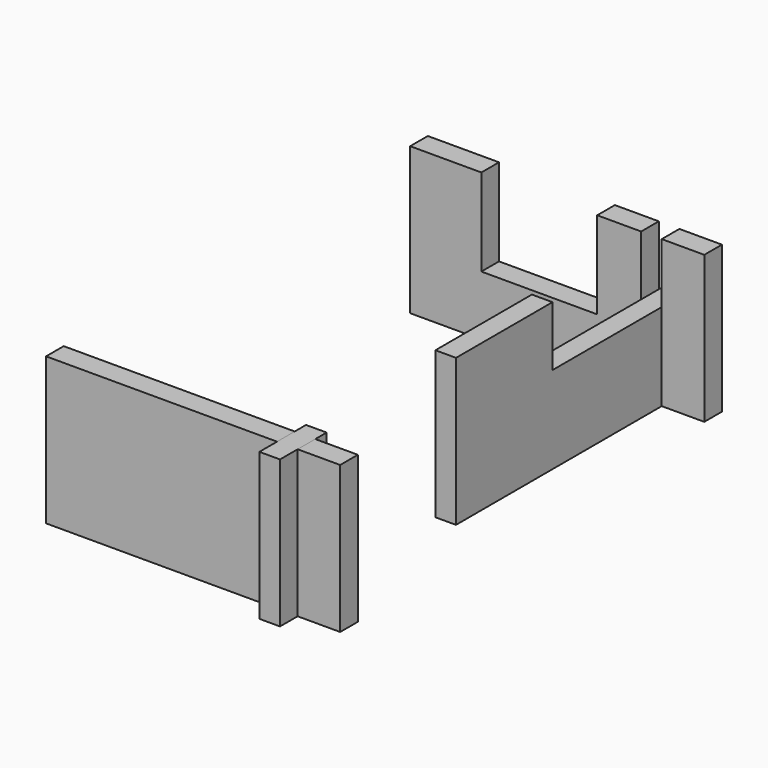
from build123d import *

# Parameters (mm, degrees)
F0_W      = 40
F0_H      = 20
F1_DEPTH  = 3
F2_W      = 2.8
F2_H      = 3
F3_DEPTH  = 10
F5_DEPTH  = 20
F6_W      = 2.9889008573
F6_H      = 10
F7_DEPTH  = 34.2135911891
F8_W      = 22
F8_H      = 20
F9_DEPTH  = 25
F10_W     = 24.6729651093
F10_H     = 8.1348870695
F11_DEPTH = 25
F13_W     = 15.75680729
F13_H     = 11.8645136058
F14_DEPTH = 25


with BuildPart() as f1:
    # F0 (on Front) → F1 (new body)
    with BuildSketch(Plane.XZ):
        with Locations((-20, 10)):
            Rectangle(F0_W, F0_H)
    extrude(amount=F1_DEPTH)

    # F2 (on face) → F3 (cut)
    with BuildSketch(Plane.XY.offset(20)):
        with Locations((-7.1874088109, -1.5)):
            Rectangle(F2_W, F2_H)
    extrude(amount=-F3_DEPTH, mode=Mode.SUBTRACT)


with BuildPart() as f5:
    # F4 (on face) → F5 (new body, through all)
    with BuildSketch(Plane.XY.offset(20)):
        Polygon((-5.7874088109, 65), (-8.5874088109, 65), (-8.5874088109, 0), (-8.5874088109, -3), (-8.5874088109, -6), (-5.7874088109, -6), align=None)
    extrude(amount=-F5_DEPTH)

    # F6 (on face) → F7 (cut, through all)
    with BuildSketch(Plane.YZ.offset(-5.7874088109)):
        with Locations((-1.5036289775, 5)):
            Rectangle(F6_W, F6_H)
        with Locations((60.5036289775, 5)):
            Rectangle(F6_W, F6_H)
    extrude(amount=-F7_DEPTH, mode=Mode.SUBTRACT)

    # F8 (on face) → F9 (cut)
    with BuildSketch(Plane.YZ.offset(-5.7874088109)):
        with Locations((12.9240668043, 10)):
            Rectangle(F8_W, F8_H)
    extrude(amount=-F9_DEPTH, mode=Mode.SUBTRACT)

    # F10 (on face) → F11 (cut)
    with BuildSketch(Plane.YZ.offset(-5.7874088109)):
        with Locations((52.6635174453, 15.9325564653)):
            Rectangle(F10_W, F10_H)
    extrude(amount=-F11_DEPTH, mode=Mode.SUBTRACT)


with BuildPart() as f12_1:
    # F12: copy of F1
    add(f1.part.moved(Location((0, 61.9, 0))))

    # F13 (on face) → F14 (cut)
    with BuildSketch(Plane(origin=(0, 61.9, 0), x_dir=(-1, 0, 0), z_dir=(0, 1, 0))):
        with Locations((22.4399198778, 14.0677431971)):
            Rectangle(F13_W, F13_H)
    extrude(amount=-F14_DEPTH, mode=Mode.SUBTRACT)


solid = Compound([f1.part, f5.part, f12_1.part])
